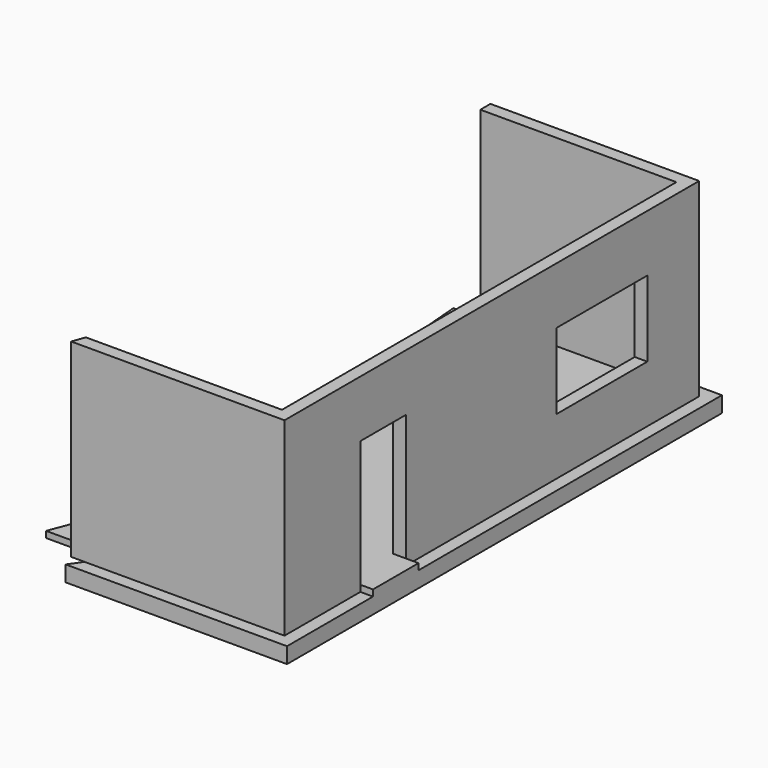
from build123d import *

# Parameters (mm, degrees)
F1_DEPTH = 254
F3_DEPTH = 3048
F4_W     = 914.4
F4_H     = 2133.6
F4_W_2   = 1828.8
F4_H_2   = 1219.2
F5_DEPTH = 203.2
F7_DEPTH = 101.6


with BuildPart() as f1:
    # F0 (on Top) → F1 (new body)
    with BuildSketch(Plane.XY):
        Polygon((-3558.042188, 0), (0, 0), (0, 8737.6), (-3558.042188, 8737.6), (-3134.217299, 8128), (-609.6, 8128), (-609.6, 609.6), (-3134.217299, 609.6), align=None)
    extrude(amount=F1_DEPTH)

    # F2 (on face) → F3 (join)
    with BuildSketch(Plane.XY.offset(254)):
        Polygon((-3558.042188, 406.4), (-3631.453591, 203.2), (-203.2, 203.2), (-203.2, 8534.4), (-3558.042188, 8534.4), (-3558.042188, 8331.2), (-406.4, 8331.2), (-406.4, 406.4), align=None)
    extrude(amount=F3_DEPTH)

    # F4 (on face) → F5 (cut)
    with BuildSketch(Plane.YZ.offset(-203.2)):
        with Locations((2184.4, 1320.8)):
            Rectangle(F4_W, F4_H)
        with Locations((6578.6, 1778)):
            Rectangle(F4_W_2, F4_H_2)
    extrude(amount=-F5_DEPTH, mode=Mode.SUBTRACT)

    # F6 (on face) → F7 (join)
    with BuildSketch(Plane.XY.offset(254)):
        Polygon((-4197.892189, 406.4), (-406.4, 406.4), (-406.4, 1727.2), (0, 1727.2), (0, 2641.6), (-406.4, 2641.6), (-406.4, 8331.2), (-3988.061666, 8325.821877), (-3701.404333, 4810.412884), (-4117.448807, 3829.051256), (-3467.950344, 2315.713644), align=None)
    extrude(amount=F7_DEPTH)


solid = f1.part
